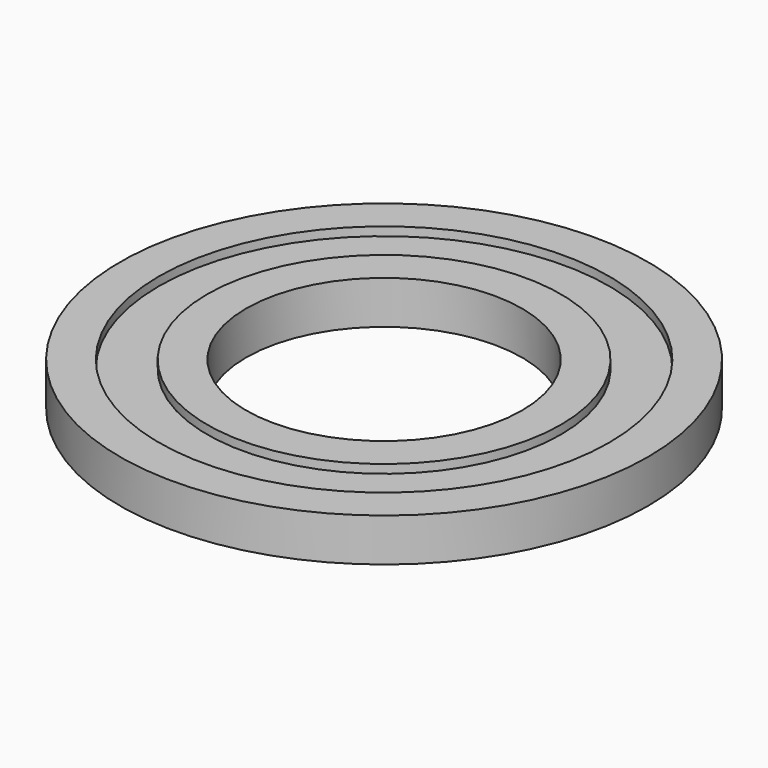
from build123d import *

# Parameters (mm, degrees)
F1_R     = 30.6
F1_R_2   = 16
F2_DEPTH = 5
F3_R     = 26.1
F3_R_2   = 20.5
F4_DEPTH = 1


with BuildPart() as f2:
    # F1 (on Top) → F2 (new body)
    with BuildSketch(Plane.XY):
        Circle(F1_R)
        Circle(F1_R_2, mode=Mode.SUBTRACT)
    extrude(amount=-F2_DEPTH)

    # F3 (on Top) → F4 (cut)
    with BuildSketch(Plane.XY):
        Circle(F3_R)
        Circle(F3_R_2, mode=Mode.SUBTRACT)
    extrude(amount=-F4_DEPTH, mode=Mode.SUBTRACT)


solid = f2.part
